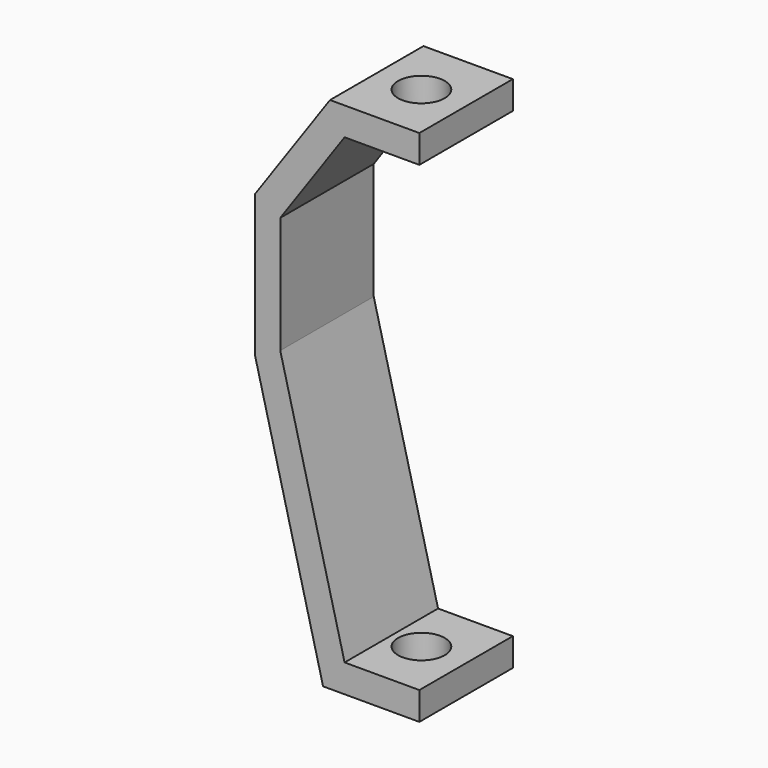
from build123d import *

# Parameters (mm, degrees)
F1_DEPTH = 62.5
F3_D     = 50


with BuildPart() as f1:
    # F0 (on Front) → F1 (new body, symmetric)
    with BuildSketch(Plane.XZ):
        Polygon((68.8291723621, -333.8891267776), (0, -62.5), (0, 62.5), (68.8291723621, 160.7982453147), (148.8291723621, 160.7982453147), (148.8291723621, 190.7982453147), (53.2121608456, 190.7982453147), (-26.8399444408, 76.4719907145), (-26.8399444408, -76.4719907145), (45.8093627228, -363.8891267776), (148.8291723621, -363.8891267776), (148.8291723621, -333.8891267776), align=None)
    extrude(amount=F1_DEPTH, both=True)

    # F3 (through all)
    with Locations(Plane.XY.offset(190.7982453147)):
        with Locations((101.0206666038, 0)):
            Hole(F3_D / 2)


solid = f1.part
